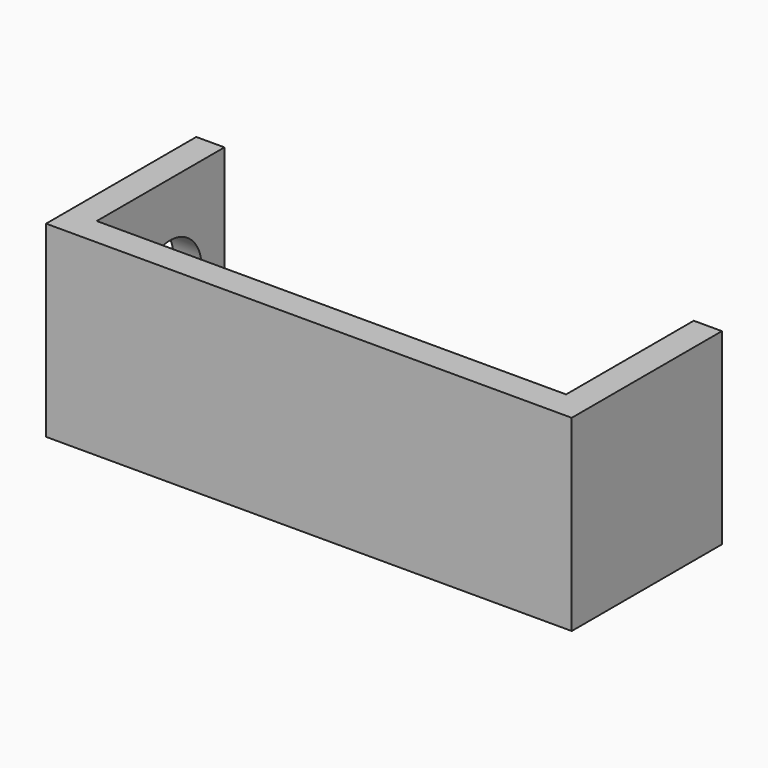
from build123d import *

# Parameters (mm, degrees)
F0_W     = 50
F0_H     = 3
F1_DEPTH = 20
F2_R     = 4.222263
F3_DEPTH = 98.7


with BuildPart() as f1:
    # F0 (on Top) → F1 (new body)
    with BuildSketch(Plane.XY):
        Polygon((0, -3), (0, 0), (0, 17), (-3, 17), (-3, -3), align=None)
        Polygon((50, 17), (50, 0), (50, -3), (53, -3), (53, 17), align=None)
        with Locations((25, -1.5)):
            Rectangle(F0_W, F0_H)
    extrude(amount=F1_DEPTH)

    # F2 (on face) → F3 (cut)
    with BuildSketch(Plane(origin=(50, 0, 0), x_dir=(0, -1, 0), z_dir=(-1, 0, 0))):
        with Locations((-9.73967, 10)):
            Circle(F2_R)
    extrude(amount=F3_DEPTH, mode=Mode.SUBTRACT)


solid = f1.part
